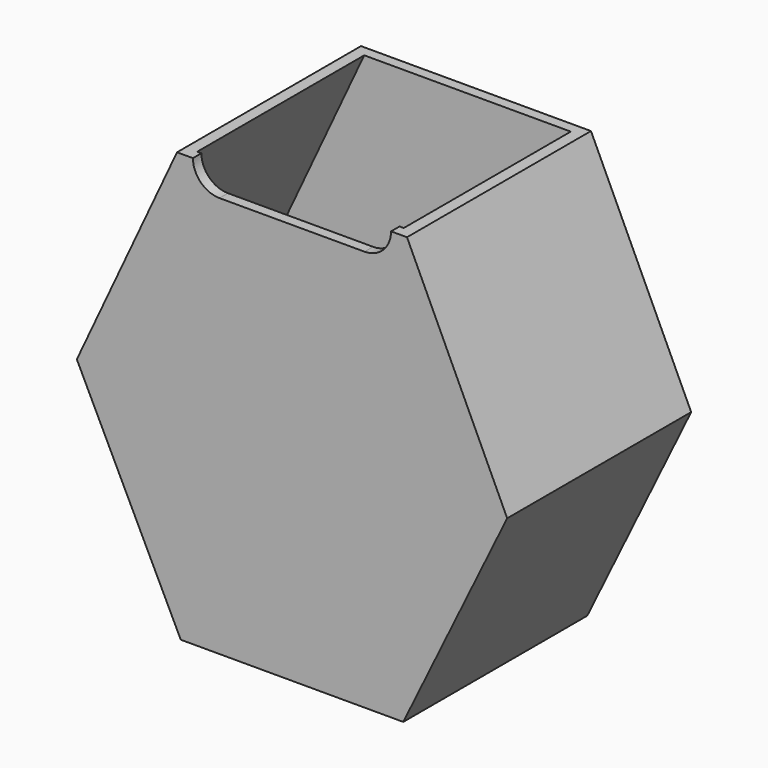
from build123d import *

# Parameters (mm, degrees)
F1_DEPTH = 65
F2_T     = -3
F4_DEPTH = 25


with BuildPart() as f1:
    # F0 (on Front) → F1 (new body)
    with BuildSketch(Plane.XZ):
        Polygon((13.628195, 74.95626), (-51.371805, 74.95626), (-79.687228, 14.233638), (-50.316361, -45.985563), (12.572752, -45.985563), (41.943619, 14.233638), align=None)
    extrude(amount=F1_DEPTH)

    # F2
    f2_openings = [f1.faces().sort_by_distance(p)[0] for p in [
        (-18.871805, -32.5, 74.95626),
    ]]
    offset(amount=F2_T, openings=f2_openings)

    # F3 (on face) → F4 (cut)
    with BuildSketch(Plane.XZ.offset(65)):
        with BuildLine():
            ThreePointArc((-46.871805, 74.95626), (-44.675105, 69.652959), (-39.371805, 67.45626))
            Line((-39.371805, 67.45626), (1.628195, 67.45626))
            ThreePointArc((1.628195, 67.45626), (6.931496, 69.652959), (9.128195, 74.95626))
            Line((9.128195, 74.95626), (-46.871805, 74.95626))
        make_face()
    extrude(amount=-F4_DEPTH, mode=Mode.SUBTRACT)


solid = f1.part
